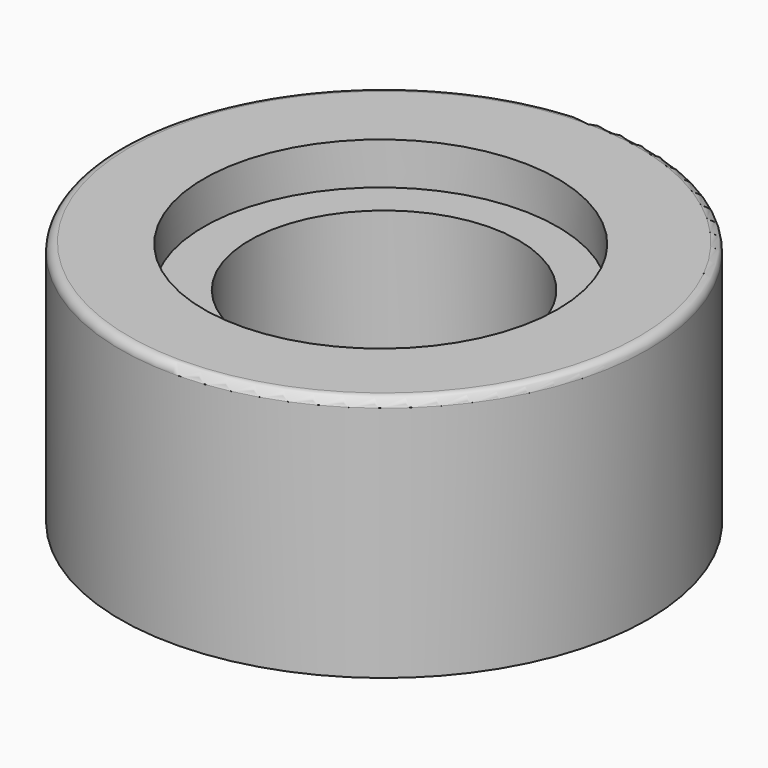
from build123d import *

# Parameters (mm, degrees)
F0_R      = 4.75
F1_DEPTH  = 5
F2_R      = 7.5
F3_DEPTH  = 2
F4_R      = 3.825
F5_DEPTH  = 25
F6_R      = 0.25
F7_R      = 7.5
F7_R_2    = 6.65
F8_DEPTH  = 5
F9_R      = 5.0264335275
F9_R_2    = 3.825
F10_DEPTH = 1.2


with BuildPart() as f1:
    # F0 (on Top) → F1 (new body)
    with BuildSketch(Plane.XY):
        Circle(F0_R)
    extrude(amount=F1_DEPTH)

    # F2 (on face) → F3 (join)
    with BuildSketch(Plane.XY.offset(5)):
        Circle(F2_R)
    extrude(amount=F3_DEPTH)

    # F4 (on face) → F5 (cut)
    with BuildSketch(Plane.XY.offset(7)):
        Circle(F4_R)
    extrude(amount=-F5_DEPTH, mode=Mode.SUBTRACT)

    # F6
    f6_edges = [f1.edges().sort_by_distance(p)[0] for p in [
        (-7.5, 0, 7),
    ]]
    fillet(f6_edges, radius=F6_R)

    # F7 (on face) → F8 (join)
    with BuildSketch(Plane(origin=(0, 0, 5), x_dir=(1, 0, 0), z_dir=(0, 0, -1))):
        Circle(F7_R)
        Circle(F7_R_2, mode=Mode.SUBTRACT)
    extrude(amount=F8_DEPTH)

    # F9 (on face) → F10 (cut)
    with BuildSketch(Plane.XY.offset(7)):
        with Locations((0, -0.1200375191)):
            Circle(F9_R)
        Circle(F9_R_2, mode=Mode.SUBTRACT)
    extrude(amount=-F10_DEPTH, mode=Mode.SUBTRACT)


solid = f1.part
